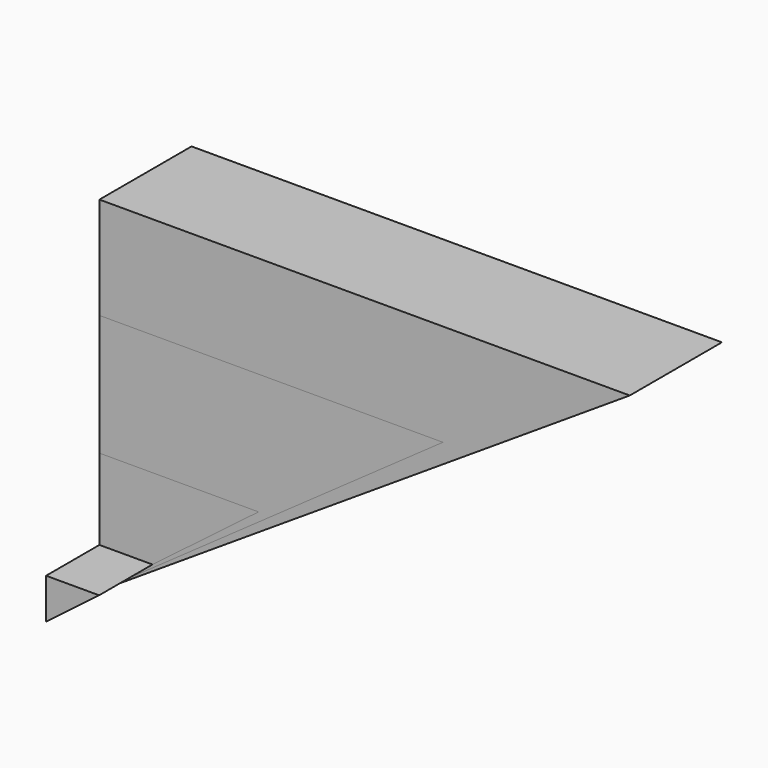
from build123d import *

# Parameters (mm, degrees)
F1_DEPTH = 1158.24
F3_DEPTH = 1158.24
F5_DEPTH = 1158.24
F7_DEPTH = 1828.8


with BuildPart() as f1:
    # F0 (on Front) → F1 (new body)
    with BuildSketch(Plane.XZ):
        Polygon((0, 3463.940102), (0, 0), (5334, 3463.940102), align=None)
    extrude(amount=F1_DEPTH)


with BuildPart() as f3:
    # F2 (on Front) → F3 (new body)
    with BuildSketch(Plane.XZ):
        Polygon((0, 2438.4), (0, 0), (3454.4, 2438.4), align=None)
    extrude(amount=F3_DEPTH)


with BuildPart() as f5:
    # F4 (on Front) → F5 (new body)
    with BuildSketch(Plane.XZ):
        Polygon((0, 1219.2), (0, 0), (1600.2, 1219.2), align=None)
    extrude(amount=F5_DEPTH)


with BuildPart() as f7:
    # F6 (on Front) → F7 (new body)
    with BuildSketch(Plane.XZ):
        Polygon((0, 406.4), (0, 0), (533.4, 406.4), align=None)
    extrude(amount=F7_DEPTH)


solid = Compound([f1.part, f3.part, f5.part, f7.part])
